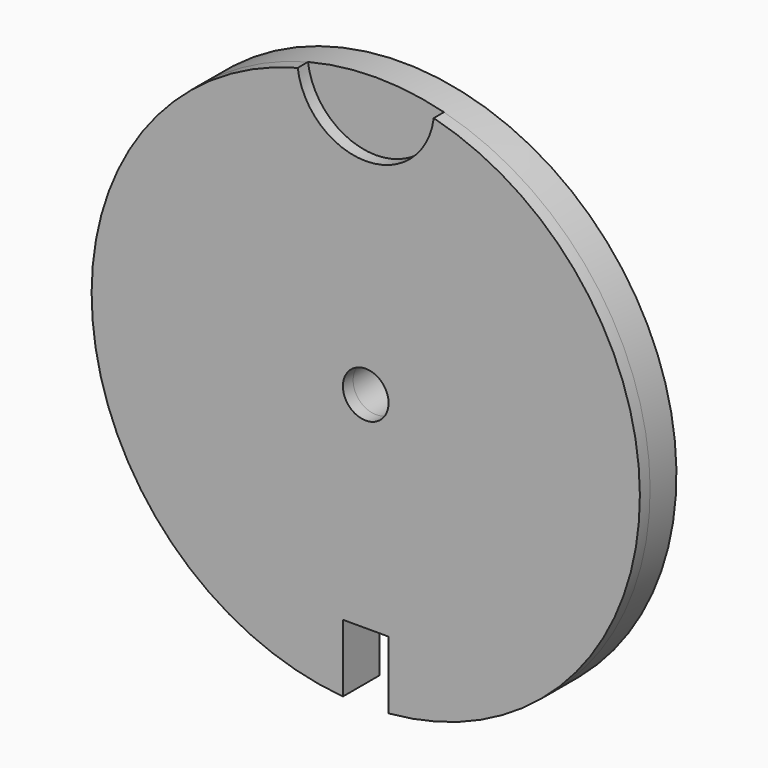
from build123d import *

# Parameters (mm, degrees)
F0_R     = 3.175
F1_DEPTH = 1.778
F2_R     = 3.175
F3_DEPTH = 4.572


with BuildPart() as f1:
    # F0 (on Front) → F1 (new body)
    with BuildSketch(Plane.XZ):
        with BuildLine():
            ThreePointArc((9.450293, 36.909375), (0, 28.575), (-9.450293, 36.909375))
            ThreePointArc((-9.450293, 36.909375), (-37.966897, -3.181937), (-3.175, -37.967478))
            Line((-3.175, -37.967478), (-3.175, -28.575))
            Line((-3.175, -28.575), (3.175, -28.575))
            Line((3.175, -28.575), (3.175, -37.967478))
            ThreePointArc((3.175, -37.967478), (37.966897, -3.181937), (9.450293, 36.909375))
        make_face()
        Circle(F0_R, mode=Mode.SUBTRACT)
    extrude(amount=F1_DEPTH)

    # F2 (on Front) → F3 (join)
    with BuildSketch(Plane.XZ):
        with BuildLine():
            Line((3.175, -28.575), (3.175, -37.967478))
            ThreePointArc((3.175, -37.967478), (0, 38.1), (-3.175, -37.967478))
            Line((-3.175, -37.967478), (-3.175, -28.575))
            Line((-3.175, -28.575), (3.175, -28.575))
        make_face()
        Circle(F2_R, mode=Mode.SUBTRACT)
    extrude(amount=-F3_DEPTH)


solid = f1.part
